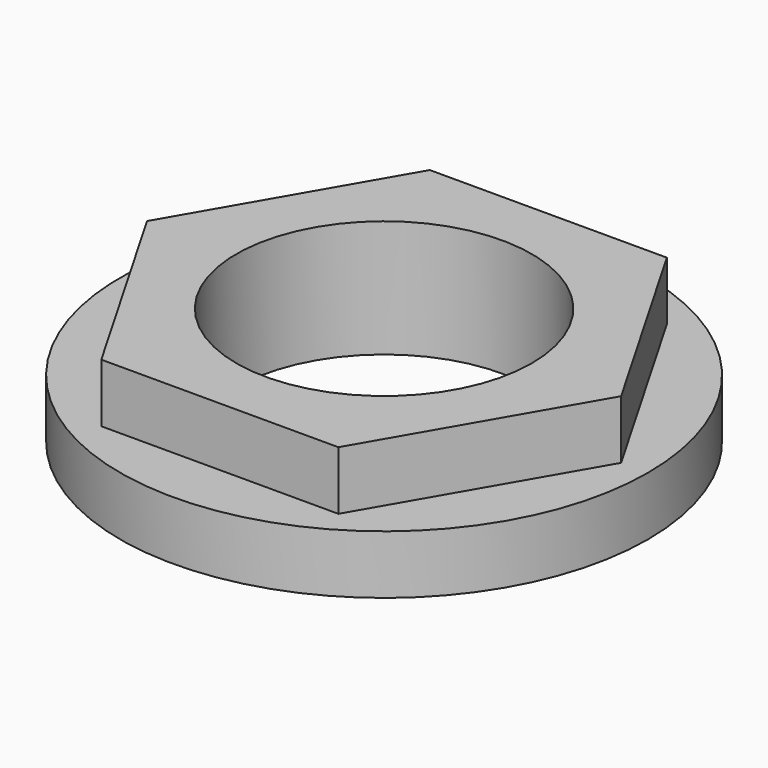
from build123d import *

# Parameters (mm, degrees)
F0_R     = 14.2875
F1_DEPTH = 3.175
F3_DEPTH = 3.175
F4_R     = 8.001
F5_DEPTH = 25.4


with BuildPart() as f1:
    # F0 (on Top) → F1 (new body)
    with BuildSketch(Plane.XY):
        Circle(F0_R)
    extrude(amount=F1_DEPTH)

    # F2 (on face) → F3 (join)
    with BuildSketch(Plane.XY.offset(3.175)):
        Polygon((6.415805, 11.1125), (-6.415805, 11.1125), (-12.83161, 0), (-6.415805, -11.1125), (6.415805, -11.1125), (12.83161, 0), align=None)
    extrude(amount=F3_DEPTH)

    # F4 (on face) → F5 (cut)
    with BuildSketch(Plane(origin=(0, 0, 0), x_dir=(1, 0, 0), z_dir=(0, 0, -1))):
        Circle(F4_R)
    extrude(amount=-F5_DEPTH, mode=Mode.SUBTRACT)


solid = f1.part
